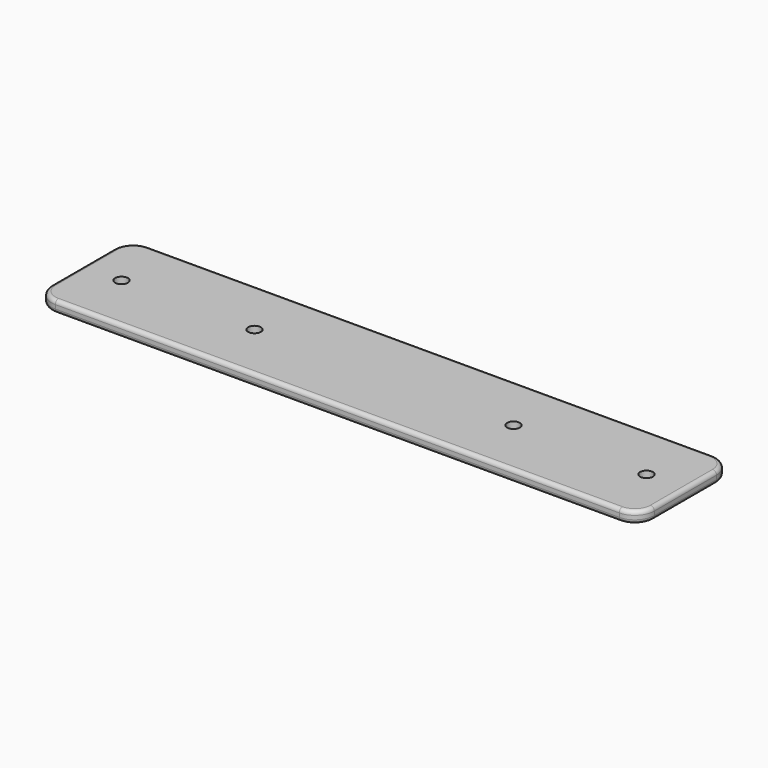
from build123d import *

# Parameters (mm, degrees)
F0_W     = 155
F0_H     = 30
F1_DEPTH = 3
F2_D     = 3.3
F3_R     = 5
F4_R     = 1
F5_D     = 3.3


with BuildPart() as f1:
    # F0 (on Top) → F1 (new body)
    with BuildSketch(Plane.XY):
        Rectangle(F0_W, F0_H)
    extrude(amount=F1_DEPTH)

    # F2 (through all)
    with Locations(Plane(origin=(0, 0, 0), x_dir=(1, 0, 0), z_dir=(0, 0, -1))):
        with Locations((-67.5, 0), (67.5, 0)):
            Hole(F2_D / 2)

    # F3
    f3_edges = [f1.edges().sort_by_distance(p)[0] for p in [
        (-77.5, 15, 1.5),
        (-77.5, -15, 1.5),
        (77.5, -15, 1.5),
        (77.5, 15, 1.5),
    ]]
    fillet(f3_edges, radius=F3_R)

    # F4
    f4_edges = [f1.edges().sort_by_distance(p)[0] for p in [
        (0, -15, 3),
        (0, -15, 0),
    ]]
    fillet(f4_edges, radius=F4_R)

    # F5 (through all)
    with Locations(Plane(origin=(0, 0, 0), x_dir=(1, 0, 0), z_dir=(0, 0, -1))):
        with Locations((-33.3, 0), (33.3, 0)):
            Hole(F5_D / 2)


solid = f1.part
